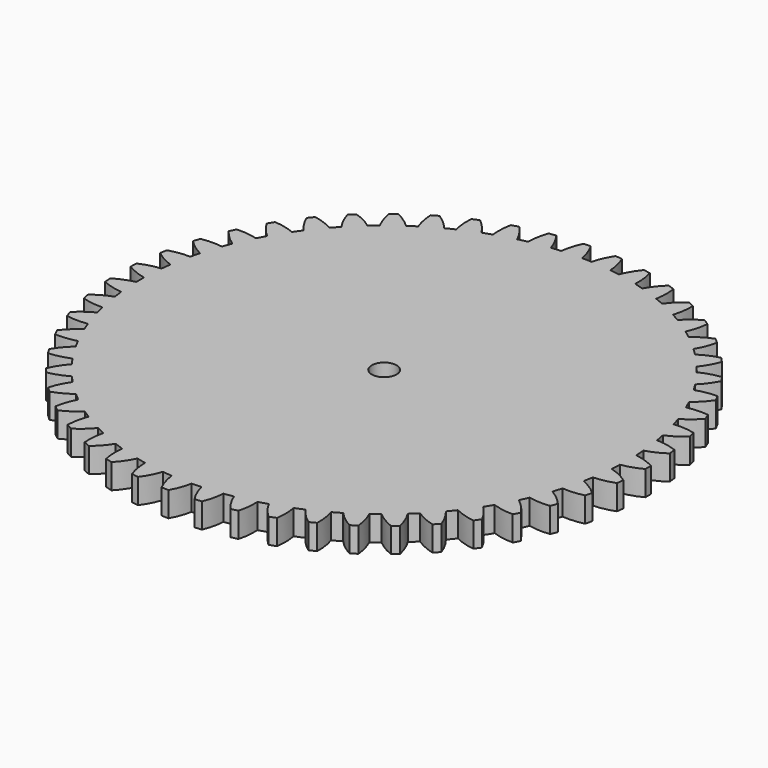
from build123d import *

# Parameters (mm, degrees)
F0_R     = 1
F1_DEPTH = 2


with BuildPart() as f1:
    # F0 (on Top) → F1 (new body)
    with BuildSketch(Plane.XY):
        with BuildLine():
            ThreePointArc((0.98732, 19.575117), (0.603583, 19.590704), (0.219615, 19.59877))
            ThreePointArc((0.219615, 19.59877), (-0.008279, 20.422581), (-0.370556, 21.196761))
            ThreePointArc((-0.370556, 21.196761), (-0.652855, 21.189945), (-0.935039, 21.17937))
            ThreePointArc((-0.935039, 21.17937), (-1.248969, 20.384355), (-1.425716, 19.548077))
            ThreePointArc((-1.425716, 19.548077), (-1.80846, 19.51639), (-2.190509, 19.477209))
            ThreePointArc((-2.190509, 19.477209), (-2.517912, 20.26677), (-2.972581, 20.990564))
            ThreePointArc((-2.972581, 20.990564), (-3.251903, 20.949108), (-3.530648, 20.903936))
            ThreePointArc((-3.530648, 20.903936), (-3.744501, 20.076369), (-3.81714, 19.224709))
            ThreePointArc((-3.81714, 19.224709), (-4.193088, 19.146227), (-4.567427, 19.060394))
            ThreePointArc((-4.567427, 19.060394), (-4.989377, 19.803737), (-5.529545, 20.466171))
            ThreePointArc((-5.529545, 20.466171), (-5.801655, 20.390704), (-6.072737, 20.311619))
            ThreePointArc((-6.072737, 20.311619), (-6.183271, 19.464045), (-6.150699, 18.609914))
            ThreePointArc((-6.150699, 18.609914), (-6.514154, 18.485827), (-6.875108, 18.354642))
            ThreePointArc((-6.875108, 18.354642), (-7.385207, 19.040499), (-8.002686, 19.631531))
            ThreePointArc((-8.002686, 19.631531), (-8.263461, 19.523197), (-8.522769, 19.411399))
            ThreePointArc((-8.522769, 19.411399), (-8.528308, 18.556666), (-8.391021, 17.713011))
            ThreePointArc((-8.391021, 17.713011), (-8.736472, 17.545201), (-9.078568, 17.370653))
            ThreePointArc((-9.078568, 17.370653), (-9.669085, 17.988626), (-10.354515, 18.499298))
            ThreePointArc((-10.354515, 18.499298), (-10.6, 18.359739), (-10.843604, 18.216922))
            ThreePointArc((-10.843604, 18.216922), (-10.744064, 17.367986), (-10.504143, 16.547598))
            ThreePointArc((-10.504143, 16.547598), (-10.826353, 16.338607), (-11.144407, 16.123343))
            ThreePointArc((-11.144407, 16.123343), (-11.80639, 16.664064), (-12.54938, 17.086634))
            ThreePointArc((-12.54938, 17.086634), (-12.775854, 16.917965), (-13.000062, 16.746295))
            ThreePointArc((-13.000062, 16.746295), (-12.796952, 15.916026), (-12.458033, 15.131339))
            ThreePointArc((-12.458033, 15.131339), (-12.752119, 14.884336), (-13.041309, 14.631619))
            ThreePointArc((-13.041309, 14.631619), (-13.764722, 15.086892), (-14.55401, 15.414954))
            ThreePointArc((-14.55401, 15.414954), (-14.75804, 15.219733), (-14.959451, 15.021811))
            ThreePointArc((-14.959451, 15.021811), (-14.655851, 14.222795), (-14.223072, 13.485705))
            ThreePointArc((-14.223072, 13.485705), (-14.484575, 13.204435), (-14.740517, 12.918095))
            ThreePointArc((-14.740517, 12.918095), (-15.514395, 13.281018), (-16.338015, 13.509599))
            ThreePointArc((-16.338015, 13.509599), (-16.516508, 13.290785), (-16.692071, 13.069612))
            ThreePointArc((-16.692071, 13.069612), (-16.292582, 12.313961), (-15.772503, 11.635641))
            ThreePointArc((-15.772503, 11.635641), (-15.997459, 11.324367), (-16.216274, 11.008745))
            ThreePointArc((-16.216274, 11.008745), (-17.028885, 11.273817), (-17.874353, 11.399452))
            ThreePointArc((-17.874353, 11.399452), (-18.024603, 11.160362), (-18.171656, 10.919291))
            ThreePointArc((-18.171656, 10.919291), (-17.682334, 10.21846), (-17.08284, 9.609193))
            ThreePointArc((-17.08284, 9.609193), (-17.267839, 9.272634), (-17.446208, 8.932514))
            ThreePointArc((-17.446208, 8.932514), (-18.285235, 9.095716), (-19.139733, 9.116502))
            ThreePointArc((-19.139733, 9.116502), (-19.259464, 8.860759), (-19.375777, 8.603445))
            ThreePointArc((-19.375777, 8.603445), (-18.80404, 7.968058), (-18.134218, 7.437079))
            ThreePointArc((-18.134218, 7.437079), (-18.276456, 7.080337), (-18.411676, 6.720876))
            ThreePointArc((-18.411676, 6.720876), (-19.264399, 6.779734), (-20.114975, 6.695354))
            ThreePointArc((-20.114975, 6.695354), (-20.20237, 6.426837), (-20.286181, 6.157179))
            ThreePointArc((-20.286181, 6.157179), (-19.640696, 5.596867), (-18.9107, 5.152227))
            ThreePointArc((-18.9107, 5.152227), (-19.00802, 4.780709), (-19.098042, 4.407355))
            ThreePointArc((-19.098042, 4.407355), (-19.951535, 4.360978), (-20.785295, 4.172712))
            ThreePointArc((-20.785295, 4.172712), (-20.83903, 3.89549), (-20.889067, 3.617577))
            ThreePointArc((-20.889067, 3.617577), (-20.179619, 3.140834), (-19.400514, 2.789272))
            ThreePointArc((-19.400514, 2.789272), (-19.451442, 2.40861), (-19.494901, 2.027024))
            ThreePointArc((-19.494901, 2.027024), (-20.336225, 1.876114), (-21.14053, 1.586815))
            ThreePointArc((-21.14053, 1.586815), (-21.159791, 1.305091), (-21.175297, 1.023135))
            ThreePointArc((-21.175297, 1.023135), (-20.41264, 0.63719), (-19.596237, 0.384035))
            ThreePointArc((-19.596237, 0.384035), (-19.6, 0), (-19.596237, -0.384035))
            ThreePointArc((-19.596237, -0.384035), (-20.41264, -0.63719), (-21.175297, -1.023135))
            ThreePointArc((-21.175297, -1.023135), (-21.159791, -1.305091), (-21.14053, -1.586815))
            ThreePointArc((-21.14053, -1.586815), (-20.336225, -1.876114), (-19.494901, -2.027024))
            ThreePointArc((-19.494901, -2.027024), (-19.451442, -2.40861), (-19.400514, -2.789272))
            ThreePointArc((-19.400514, -2.789272), (-20.179619, -3.140834), (-20.889067, -3.617577))
            ThreePointArc((-20.889067, -3.617577), (-20.83903, -3.89549), (-20.785295, -4.172712))
            ThreePointArc((-20.785295, -4.172712), (-19.951535, -4.360978), (-19.098042, -4.407355))
            ThreePointArc((-19.098042, -4.407355), (-19.00802, -4.780709), (-18.9107, -5.152227))
            ThreePointArc((-18.9107, -5.152227), (-19.640696, -5.596867), (-20.286181, -6.157179))
            ThreePointArc((-20.286181, -6.157179), (-20.20237, -6.426837), (-20.114975, -6.695354))
            ThreePointArc((-20.114975, -6.695354), (-19.264399, -6.779734), (-18.411676, -6.720876))
            ThreePointArc((-18.411676, -6.720876), (-18.276456, -7.080337), (-18.134218, -7.437079))
            ThreePointArc((-18.134218, -7.437079), (-18.80404, -7.968058), (-19.375777, -8.603445))
            ThreePointArc((-19.375777, -8.603445), (-19.259464, -8.860759), (-19.139733, -9.116502))
            ThreePointArc((-19.139733, -9.116502), (-18.285235, -9.095716), (-17.446208, -8.932514))
            ThreePointArc((-17.446208, -8.932514), (-17.267839, -9.272634), (-17.08284, -9.609193))
            ThreePointArc((-17.08284, -9.609193), (-17.682334, -10.21846), (-18.171656, -10.919291))
            ThreePointArc((-18.171656, -10.919291), (-18.024603, -11.160362), (-17.874353, -11.399452))
            ThreePointArc((-17.874353, -11.399452), (-17.028885, -11.273817), (-16.216274, -11.008745))
            ThreePointArc((-16.216274, -11.008745), (-15.997459, -11.324367), (-15.772503, -11.635641))
            ThreePointArc((-15.772503, -11.635641), (-16.292582, -12.313961), (-16.692071, -13.069612))
            ThreePointArc((-16.692071, -13.069612), (-16.516508, -13.290785), (-16.338015, -13.509599))
            ThreePointArc((-16.338015, -13.509599), (-15.514395, -13.281018), (-14.740517, -12.918095))
            ThreePointArc((-14.740517, -12.918095), (-14.484575, -13.204435), (-14.223072, -13.485705))
            ThreePointArc((-14.223072, -13.485705), (-14.655851, -14.222795), (-14.959451, -15.021811))
            ThreePointArc((-14.959451, -15.021811), (-14.75804, -15.219733), (-14.55401, -15.414954))
            ThreePointArc((-14.55401, -15.414954), (-13.764722, -15.086892), (-13.041309, -14.631619))
            ThreePointArc((-13.041309, -14.631619), (-12.752119, -14.884336), (-12.458033, -15.131339))
            ThreePointArc((-12.458033, -15.131339), (-12.796952, -15.916026), (-13.000062, -16.746295))
            ThreePointArc((-13.000062, -16.746295), (-12.775854, -16.917965), (-12.54938, -17.086634))
            ThreePointArc((-12.54938, -17.086634), (-11.80639, -16.664064), (-11.144407, -16.123343))
            ThreePointArc((-11.144407, -16.123343), (-10.826353, -16.338607), (-10.504143, -16.547598))
            ThreePointArc((-10.504143, -16.547598), (-10.744064, -17.367986), (-10.843604, -18.216922))
            ThreePointArc((-10.843604, -18.216922), (-10.6, -18.359739), (-10.354515, -18.499298))
            ThreePointArc((-10.354515, -18.499298), (-9.669085, -17.988626), (-9.078568, -17.370653))
            ThreePointArc((-9.078568, -17.370653), (-8.736472, -17.545201), (-8.391021, -17.713011))
            ThreePointArc((-8.391021, -17.713011), (-8.528308, -18.556666), (-8.522769, -19.411399))
            ThreePointArc((-8.522769, -19.411399), (-8.263461, -19.523197), (-8.002686, -19.631531))
            ThreePointArc((-8.002686, -19.631531), (-7.385207, -19.040499), (-6.875108, -18.354642))
            ThreePointArc((-6.875108, -18.354642), (-6.514154, -18.485827), (-6.150699, -18.609914))
            ThreePointArc((-6.150699, -18.609914), (-6.183271, -19.464045), (-6.072737, -20.311619))
            ThreePointArc((-6.072737, -20.311619), (-5.801655, -20.390704), (-5.529545, -20.466171))
            ThreePointArc((-5.529545, -20.466171), (-4.989377, -19.803737), (-4.567427, -19.060394))
            ThreePointArc((-4.567427, -19.060394), (-4.193088, -19.146227), (-3.81714, -19.224709))
            ThreePointArc((-3.81714, -19.224709), (-3.744501, -20.076369), (-3.530648, -20.903936))
            ThreePointArc((-3.530648, -20.903936), (-3.251903, -20.949108), (-2.972581, -20.990564))
            ThreePointArc((-2.972581, -20.990564), (-2.517912, -20.26677), (-2.190509, -19.477209))
            ThreePointArc((-2.190509, -19.477209), (-1.80846, -19.51639), (-1.425716, -19.548077))
            ThreePointArc((-1.425716, -19.548077), (-1.248969, -20.384355), (-0.935039, -21.17937))
            ThreePointArc((-0.935039, -21.17937), (-0.652855, -21.189945), (-0.370556, -21.196761))
            ThreePointArc((-0.370556, -21.196761), (-0.008279, -20.422581), (0.219615, -19.59877))
            ThreePointArc((0.219615, -19.59877), (0.603583, -19.590704), (0.98732, -19.575117))
            ThreePointArc((0.98732, -19.575117), (1.265496, -20.383336), (1.674745, -21.133746))
            ThreePointArc((1.674745, -21.133746), (1.956089, -21.109565), (2.237087, -21.081638))
            ThreePointArc((2.237087, -21.081638), (2.50148, -20.268805), (2.626409, -19.423233))
            ThreePointArc((2.626409, -19.423233), (3.006476, -19.368043), (3.385389, -19.305417))
            ThreePointArc((3.385389, -19.305417), (3.760777, -20.073326), (4.259141, -20.767757))
            ThreePointArc((4.259141, -20.767757), (4.535381, -20.709184), (4.810817, -20.646938))
            ThreePointArc((4.810817, -20.646938), (4.973319, -19.807775), (4.99339, -18.95326))
            ThreePointArc((4.99339, -18.95326), (5.363795, -18.851783), (5.732139, -18.743067))
            ThreePointArc((5.732139, -18.743067), (6.199049, -19.459025), (6.778973, -20.086949))
            ThreePointArc((6.778973, -20.086949), (7.045922, -19.994874), (7.311621, -19.899251))
            ThreePointArc((7.311621, -19.899251), (7.369767, -19.04648), (7.284677, -18.195974))
            ThreePointArc((7.284677, -18.195974), (7.639803, -18.049748), (7.991996, -17.896592))
            ThreePointArc((7.991996, -17.896592), (8.54335, -18.549745), (9.196043, -19.101644))
            ThreePointArc((9.196043, -19.101644), (9.449653, -18.977462), (9.701587, -18.849913))
            ThreePointArc((9.701587, -18.849913), (9.654497, -17.996459), (9.465535, -17.162857))
            ThreePointArc((9.465535, -17.162857), (9.8, -16.974098), (10.130703, -16.778822))
            ThreePointArc((10.130703, -16.778822), (10.758142, -17.35927), (11.47371, -17.826777))
            ThreePointArc((11.47371, -17.826777), (11.710137, -17.672371), (11.944488, -17.514828))
            ThreePointArc((11.944488, -17.514828), (11.792875, -16.673631), (11.502905, -15.869568))
            ThreePointArc((11.502905, -15.869568), (11.811639, -15.641138), (12.115838, -15.406702))
            ThreePointArc((12.115838, -15.406702), (12.809852, -15.905646), (13.577447, -16.281675))
            ThreePointArc((13.577447, -16.281675), (13.793108, -16.099384), (14.006322, -15.914237))
            ThreePointArc((14.006322, -15.914237), (13.752485, -15.098047), (13.365903, -14.335712))
            ThreePointArc((13.365903, -14.335712), (13.644225, -14.071074), (13.917309, -13.801033))
            ThreePointArc((13.917309, -13.801033), (14.667377, -14.210908), (15.475364, -14.489759))
            ThreePointArc((15.475364, -14.489759), (15.666989, -14.282348), (15.855834, -14.072403))
            ThreePointArc((15.855834, -14.072403), (15.503622, -13.293592), (15.026287, -12.584542))
            ThreePointArc((15.026287, -12.584542), (15.269979, -12.287707), (15.507808, -11.986154))
            ThreePointArc((15.507808, -11.986154), (16.30256, -12.300748), (17.13869, -12.478193))
            ThreePointArc((17.13869, -12.478193), (17.303375, -12.248805), (17.464989, -12.017245))
            ThreePointArc((17.464989, -12.017245), (17.019739, -11.28762), (16.458888, -10.642603))
            ThreePointArc((16.458888, -10.642603), (16.664256, -10.31807), (16.863225, -9.989577))
            ThreePointArc((16.863225, -9.989577), (17.690613, -10.20412), (18.542212, -10.27747))
            ThreePointArc((18.542212, -10.27747), (18.677459, -10.029583), (18.809392, -9.779917))
            ThreePointArc((18.809392, -9.779917), (18.277854, -9.110539), (17.64199, -8.539332))
            ThreePointArc((17.64199, -8.539332), (17.805919, -8.192023), (17.963012, -7.841568))
            ThreePointArc((17.963012, -7.841568), (18.810494, -7.952809), (19.664652, -7.920951))
            ThreePointArc((19.664652, -7.920951), (19.768411, -7.658323), (19.868663, -7.394337))
            ThreePointArc((19.868663, -7.394337), (19.258896, -6.795351), (18.557656, -6.306615))
            ThreePointArc((18.557656, -6.306615), (18.677663, -5.941792), (18.790499, -5.574689))
            ThreePointArc((18.790499, -5.574689), (19.645227, -5.580942), (20.488996, -5.444359))
            ThreePointArc((20.488996, -5.444359), (20.559695, -5.170971), (20.626746, -4.896665))
            ThreePointArc((20.626746, -4.896665), (19.947992, -4.377153), (19.192008, -3.978295))
            ThreePointArc((19.192008, -3.978295), (19.266273, -3.601491), (19.33314, -3.223303))
            ThreePointArc((19.33314, -3.223303), (20.182159, -3.124472), (21.002748, -2.885236))
            ThreePointArc((21.002748, -2.885236), (21.039315, -2.605232), (21.072149, -2.324765))
            ThreePointArc((21.072149, -2.324765), (20.334698, -1.892602), (19.535428, -1.589669))
            ThreePointArc((19.535428, -1.589669), (19.562825, -1.206594), (19.582711, -0.823056))
            ThreePointArc((19.582711, -0.823056), (20.41315, -0.620639), (21.198119, -0.282376))
            ThreePointArc((21.198119, -0.282376), (21.2, 0), (21.198119, 0.282376))
            ThreePointArc((21.198119, 0.282376), (20.41315, 0.620639), (19.582711, 0.823056))
            ThreePointArc((19.582711, 0.823056), (19.562825, 1.206594), (19.535428, 1.589669))
            ThreePointArc((19.535428, 1.589669), (20.334698, 1.892602), (21.072149, 2.324765))
            ThreePointArc((21.072149, 2.324765), (21.039315, 2.605232), (21.002748, 2.885236))
            ThreePointArc((21.002748, 2.885236), (20.182159, 3.124472), (19.33314, 3.223303))
            ThreePointArc((19.33314, 3.223303), (19.266273, 3.601491), (19.192008, 3.978295))
            ThreePointArc((19.192008, 3.978295), (19.947992, 4.377153), (20.626746, 4.896665))
            ThreePointArc((20.626746, 4.896665), (20.559695, 5.170971), (20.488996, 5.444359))
            ThreePointArc((20.488996, 5.444359), (19.645227, 5.580942), (18.790499, 5.574689))
            ThreePointArc((18.790499, 5.574689), (18.677663, 5.941792), (18.557656, 6.306615))
            ThreePointArc((18.557656, 6.306615), (19.258896, 6.795351), (19.868663, 7.394337))
            ThreePointArc((19.868663, 7.394337), (19.768411, 7.658323), (19.664652, 7.920951))
            ThreePointArc((19.664652, 7.920951), (18.810494, 7.952809), (17.963012, 7.841568))
            ThreePointArc((17.963012, 7.841568), (17.805919, 8.192023), (17.64199, 8.539332))
            ThreePointArc((17.64199, 8.539332), (18.277854, 9.110539), (18.809392, 9.779917))
            ThreePointArc((18.809392, 9.779917), (18.677459, 10.029583), (18.542212, 10.27747))
            ThreePointArc((18.542212, 10.27747), (17.690613, 10.20412), (16.863225, 9.989577))
            ThreePointArc((16.863225, 9.989577), (16.664256, 10.31807), (16.458888, 10.642603))
            ThreePointArc((16.458888, 10.642603), (17.019739, 11.28762), (17.464989, 12.017245))
            ThreePointArc((17.464989, 12.017245), (17.303375, 12.248805), (17.13869, 12.478193))
            ThreePointArc((17.13869, 12.478193), (16.30256, 12.300748), (15.507808, 11.986154))
            ThreePointArc((15.507808, 11.986154), (15.269979, 12.287707), (15.026287, 12.584542))
            ThreePointArc((15.026287, 12.584542), (15.503622, 13.293592), (15.855834, 14.072403))
            ThreePointArc((15.855834, 14.072403), (15.666989, 14.282348), (15.475364, 14.489759))
            ThreePointArc((15.475364, 14.489759), (14.667377, 14.210908), (13.917309, 13.801033))
            ThreePointArc((13.917309, 13.801033), (13.644225, 14.071074), (13.365903, 14.335712))
            ThreePointArc((13.365903, 14.335712), (13.752485, 15.098047), (14.006322, 15.914237))
            ThreePointArc((14.006322, 15.914237), (13.793108, 16.099384), (13.577447, 16.281675))
            ThreePointArc((13.577447, 16.281675), (12.809852, 15.905646), (12.115838, 15.406702))
            ThreePointArc((12.115838, 15.406702), (11.811639, 15.641138), (11.502905, 15.869568))
            ThreePointArc((11.502905, 15.869568), (11.792875, 16.673631), (11.944488, 17.514828))
            ThreePointArc((11.944488, 17.514828), (11.710137, 17.672371), (11.47371, 17.826777))
            ThreePointArc((11.47371, 17.826777), (10.758142, 17.35927), (10.130703, 16.778822))
            ThreePointArc((10.130703, 16.778822), (9.8, 16.974098), (9.465535, 17.162857))
            ThreePointArc((9.465535, 17.162857), (9.654497, 17.996459), (9.701587, 18.849913))
            ThreePointArc((9.701587, 18.849913), (9.449653, 18.977462), (9.196043, 19.101644))
            ThreePointArc((9.196043, 19.101644), (8.54335, 18.549745), (7.991996, 17.896592))
            ThreePointArc((7.991996, 17.896592), (7.639803, 18.049748), (7.284677, 18.195974))
            ThreePointArc((7.284677, 18.195974), (7.369767, 19.04648), (7.311621, 19.899251))
            ThreePointArc((7.311621, 19.899251), (7.045922, 19.994874), (6.778973, 20.086949))
            ThreePointArc((6.778973, 20.086949), (6.199049, 19.459025), (5.732139, 18.743067))
            ThreePointArc((5.732139, 18.743067), (5.363795, 18.851783), (4.99339, 18.95326))
            ThreePointArc((4.99339, 18.95326), (4.973319, 19.807775), (4.810817, 20.646938))
            ThreePointArc((4.810817, 20.646938), (4.535381, 20.709184), (4.259141, 20.767757))
            ThreePointArc((4.259141, 20.767757), (3.760777, 20.073326), (3.385389, 19.305417))
            ThreePointArc((3.385389, 19.305417), (3.006476, 19.368043), (2.626409, 19.423233))
            ThreePointArc((2.626409, 19.423233), (2.50148, 20.268805), (2.237087, 21.081638))
            ThreePointArc((2.237087, 21.081638), (1.956089, 21.109565), (1.674745, 21.133746))
            ThreePointArc((1.674745, 21.133746), (1.265496, 20.383336), (0.98732, 19.575117))
        make_face()
        Circle(F0_R, mode=Mode.SUBTRACT)
        with BuildLine():
            ThreePointArc((0.98732, 19.575117), (0.603583, 19.590704), (0.219615, 19.59877))
            ThreePointArc((0.219615, 19.59877), (-0.008279, 20.422581), (-0.370556, 21.196761))
            ThreePointArc((-0.370556, 21.196761), (-0.652855, 21.189945), (-0.935039, 21.17937))
            ThreePointArc((-0.935039, 21.17937), (-1.248969, 20.384355), (-1.425716, 19.548077))
            ThreePointArc((-1.425716, 19.548077), (-1.80846, 19.51639), (-2.190509, 19.477209))
            ThreePointArc((-2.190509, 19.477209), (-2.517912, 20.26677), (-2.972581, 20.990564))
            ThreePointArc((-2.972581, 20.990564), (-3.251903, 20.949108), (-3.530648, 20.903936))
            ThreePointArc((-3.530648, 20.903936), (-3.744501, 20.076369), (-3.81714, 19.224709))
            ThreePointArc((-3.81714, 19.224709), (-4.193088, 19.146227), (-4.567427, 19.060394))
            ThreePointArc((-4.567427, 19.060394), (-4.989377, 19.803737), (-5.529545, 20.466171))
            ThreePointArc((-5.529545, 20.466171), (-5.801655, 20.390704), (-6.072737, 20.311619))
            ThreePointArc((-6.072737, 20.311619), (-6.183271, 19.464045), (-6.150699, 18.609914))
            ThreePointArc((-6.150699, 18.609914), (-6.514154, 18.485827), (-6.875108, 18.354642))
            ThreePointArc((-6.875108, 18.354642), (-7.385207, 19.040499), (-8.002686, 19.631531))
            ThreePointArc((-8.002686, 19.631531), (-8.263461, 19.523197), (-8.522769, 19.411399))
            ThreePointArc((-8.522769, 19.411399), (-8.528308, 18.556666), (-8.391021, 17.713011))
            ThreePointArc((-8.391021, 17.713011), (-8.736472, 17.545201), (-9.078568, 17.370653))
            ThreePointArc((-9.078568, 17.370653), (-9.669085, 17.988626), (-10.354515, 18.499298))
            ThreePointArc((-10.354515, 18.499298), (-10.6, 18.359739), (-10.843604, 18.216922))
            ThreePointArc((-10.843604, 18.216922), (-10.744064, 17.367986), (-10.504143, 16.547598))
            ThreePointArc((-10.504143, 16.547598), (-10.826353, 16.338607), (-11.144407, 16.123343))
            ThreePointArc((-11.144407, 16.123343), (-11.80639, 16.664064), (-12.54938, 17.086634))
            ThreePointArc((-12.54938, 17.086634), (-12.775854, 16.917965), (-13.000062, 16.746295))
            ThreePointArc((-13.000062, 16.746295), (-12.796952, 15.916026), (-12.458033, 15.131339))
            ThreePointArc((-12.458033, 15.131339), (-12.752119, 14.884336), (-13.041309, 14.631619))
            ThreePointArc((-13.041309, 14.631619), (-13.764722, 15.086892), (-14.55401, 15.414954))
            ThreePointArc((-14.55401, 15.414954), (-14.75804, 15.219733), (-14.959451, 15.021811))
            ThreePointArc((-14.959451, 15.021811), (-14.655851, 14.222795), (-14.223072, 13.485705))
            ThreePointArc((-14.223072, 13.485705), (-14.484575, 13.204435), (-14.740517, 12.918095))
            ThreePointArc((-14.740517, 12.918095), (-15.514395, 13.281018), (-16.338015, 13.509599))
            ThreePointArc((-16.338015, 13.509599), (-16.516508, 13.290785), (-16.692071, 13.069612))
            ThreePointArc((-16.692071, 13.069612), (-16.292582, 12.313961), (-15.772503, 11.635641))
            ThreePointArc((-15.772503, 11.635641), (-15.997459, 11.324367), (-16.216274, 11.008745))
            ThreePointArc((-16.216274, 11.008745), (-17.028885, 11.273817), (-17.874353, 11.399452))
            ThreePointArc((-17.874353, 11.399452), (-18.024603, 11.160362), (-18.171656, 10.919291))
            ThreePointArc((-18.171656, 10.919291), (-17.682334, 10.21846), (-17.08284, 9.609193))
            ThreePointArc((-17.08284, 9.609193), (-17.267839, 9.272634), (-17.446208, 8.932514))
            ThreePointArc((-17.446208, 8.932514), (-18.285235, 9.095716), (-19.139733, 9.116502))
            ThreePointArc((-19.139733, 9.116502), (-19.259464, 8.860759), (-19.375777, 8.603445))
            ThreePointArc((-19.375777, 8.603445), (-18.80404, 7.968058), (-18.134218, 7.437079))
            ThreePointArc((-18.134218, 7.437079), (-18.276456, 7.080337), (-18.411676, 6.720876))
            ThreePointArc((-18.411676, 6.720876), (-19.264399, 6.779734), (-20.114975, 6.695354))
            ThreePointArc((-20.114975, 6.695354), (-20.20237, 6.426837), (-20.286181, 6.157179))
            ThreePointArc((-20.286181, 6.157179), (-19.640696, 5.596867), (-18.9107, 5.152227))
            ThreePointArc((-18.9107, 5.152227), (-19.00802, 4.780709), (-19.098042, 4.407355))
            ThreePointArc((-19.098042, 4.407355), (-19.951535, 4.360978), (-20.785295, 4.172712))
            ThreePointArc((-20.785295, 4.172712), (-20.83903, 3.89549), (-20.889067, 3.617577))
            ThreePointArc((-20.889067, 3.617577), (-20.179619, 3.140834), (-19.400514, 2.789272))
            ThreePointArc((-19.400514, 2.789272), (-19.451442, 2.40861), (-19.494901, 2.027024))
            ThreePointArc((-19.494901, 2.027024), (-20.336225, 1.876114), (-21.14053, 1.586815))
            ThreePointArc((-21.14053, 1.586815), (-21.159791, 1.305091), (-21.175297, 1.023135))
            ThreePointArc((-21.175297, 1.023135), (-20.41264, 0.63719), (-19.596237, 0.384035))
            ThreePointArc((-19.596237, 0.384035), (-19.6, 0), (-19.596237, -0.384035))
            ThreePointArc((-19.596237, -0.384035), (-20.41264, -0.63719), (-21.175297, -1.023135))
            ThreePointArc((-21.175297, -1.023135), (-21.159791, -1.305091), (-21.14053, -1.586815))
            ThreePointArc((-21.14053, -1.586815), (-20.336225, -1.876114), (-19.494901, -2.027024))
            ThreePointArc((-19.494901, -2.027024), (-19.451442, -2.40861), (-19.400514, -2.789272))
            ThreePointArc((-19.400514, -2.789272), (-20.179619, -3.140834), (-20.889067, -3.617577))
            ThreePointArc((-20.889067, -3.617577), (-20.83903, -3.89549), (-20.785295, -4.172712))
            ThreePointArc((-20.785295, -4.172712), (-19.951535, -4.360978), (-19.098042, -4.407355))
            ThreePointArc((-19.098042, -4.407355), (-19.00802, -4.780709), (-18.9107, -5.152227))
            ThreePointArc((-18.9107, -5.152227), (-19.640696, -5.596867), (-20.286181, -6.157179))
            ThreePointArc((-20.286181, -6.157179), (-20.20237, -6.426837), (-20.114975, -6.695354))
            ThreePointArc((-20.114975, -6.695354), (-19.264399, -6.779734), (-18.411676, -6.720876))
            ThreePointArc((-18.411676, -6.720876), (-18.276456, -7.080337), (-18.134218, -7.437079))
            ThreePointArc((-18.134218, -7.437079), (-18.80404, -7.968058), (-19.375777, -8.603445))
            ThreePointArc((-19.375777, -8.603445), (-19.259464, -8.860759), (-19.139733, -9.116502))
            ThreePointArc((-19.139733, -9.116502), (-18.285235, -9.095716), (-17.446208, -8.932514))
            ThreePointArc((-17.446208, -8.932514), (-17.267839, -9.272634), (-17.08284, -9.609193))
            ThreePointArc((-17.08284, -9.609193), (-17.682334, -10.21846), (-18.171656, -10.919291))
            ThreePointArc((-18.171656, -10.919291), (-18.024603, -11.160362), (-17.874353, -11.399452))
            ThreePointArc((-17.874353, -11.399452), (-17.028885, -11.273817), (-16.216274, -11.008745))
            ThreePointArc((-16.216274, -11.008745), (-15.997459, -11.324367), (-15.772503, -11.635641))
            ThreePointArc((-15.772503, -11.635641), (-16.292582, -12.313961), (-16.692071, -13.069612))
            ThreePointArc((-16.692071, -13.069612), (-16.516508, -13.290785), (-16.338015, -13.509599))
            ThreePointArc((-16.338015, -13.509599), (-15.514395, -13.281018), (-14.740517, -12.918095))
            ThreePointArc((-14.740517, -12.918095), (-14.484575, -13.204435), (-14.223072, -13.485705))
            ThreePointArc((-14.223072, -13.485705), (-14.655851, -14.222795), (-14.959451, -15.021811))
            ThreePointArc((-14.959451, -15.021811), (-14.75804, -15.219733), (-14.55401, -15.414954))
            ThreePointArc((-14.55401, -15.414954), (-13.764722, -15.086892), (-13.041309, -14.631619))
            ThreePointArc((-13.041309, -14.631619), (-12.752119, -14.884336), (-12.458033, -15.131339))
            ThreePointArc((-12.458033, -15.131339), (-12.796952, -15.916026), (-13.000062, -16.746295))
            ThreePointArc((-13.000062, -16.746295), (-12.775854, -16.917965), (-12.54938, -17.086634))
            ThreePointArc((-12.54938, -17.086634), (-11.80639, -16.664064), (-11.144407, -16.123343))
            ThreePointArc((-11.144407, -16.123343), (-10.826353, -16.338607), (-10.504143, -16.547598))
            ThreePointArc((-10.504143, -16.547598), (-10.744064, -17.367986), (-10.843604, -18.216922))
            ThreePointArc((-10.843604, -18.216922), (-10.6, -18.359739), (-10.354515, -18.499298))
            ThreePointArc((-10.354515, -18.499298), (-9.669085, -17.988626), (-9.078568, -17.370653))
            ThreePointArc((-9.078568, -17.370653), (-8.736472, -17.545201), (-8.391021, -17.713011))
            ThreePointArc((-8.391021, -17.713011), (-8.528308, -18.556666), (-8.522769, -19.411399))
            ThreePointArc((-8.522769, -19.411399), (-8.263461, -19.523197), (-8.002686, -19.631531))
            ThreePointArc((-8.002686, -19.631531), (-7.385207, -19.040499), (-6.875108, -18.354642))
            ThreePointArc((-6.875108, -18.354642), (-6.514154, -18.485827), (-6.150699, -18.609914))
            ThreePointArc((-6.150699, -18.609914), (-6.183271, -19.464045), (-6.072737, -20.311619))
            ThreePointArc((-6.072737, -20.311619), (-5.801655, -20.390704), (-5.529545, -20.466171))
            ThreePointArc((-5.529545, -20.466171), (-4.989377, -19.803737), (-4.567427, -19.060394))
            ThreePointArc((-4.567427, -19.060394), (-4.193088, -19.146227), (-3.81714, -19.224709))
            ThreePointArc((-3.81714, -19.224709), (-3.744501, -20.076369), (-3.530648, -20.903936))
            ThreePointArc((-3.530648, -20.903936), (-3.251903, -20.949108), (-2.972581, -20.990564))
            ThreePointArc((-2.972581, -20.990564), (-2.517912, -20.26677), (-2.190509, -19.477209))
            ThreePointArc((-2.190509, -19.477209), (-1.80846, -19.51639), (-1.425716, -19.548077))
            ThreePointArc((-1.425716, -19.548077), (-1.248969, -20.384355), (-0.935039, -21.17937))
            ThreePointArc((-0.935039, -21.17937), (-0.652855, -21.189945), (-0.370556, -21.196761))
            ThreePointArc((-0.370556, -21.196761), (-0.008279, -20.422581), (0.219615, -19.59877))
            ThreePointArc((0.219615, -19.59877), (0.603583, -19.590704), (0.98732, -19.575117))
            ThreePointArc((0.98732, -19.575117), (1.265496, -20.383336), (1.674745, -21.133746))
            ThreePointArc((1.674745, -21.133746), (1.956089, -21.109565), (2.237087, -21.081638))
            ThreePointArc((2.237087, -21.081638), (2.50148, -20.268805), (2.626409, -19.423233))
            ThreePointArc((2.626409, -19.423233), (3.006476, -19.368043), (3.385389, -19.305417))
            ThreePointArc((3.385389, -19.305417), (3.760777, -20.073326), (4.259141, -20.767757))
            ThreePointArc((4.259141, -20.767757), (4.535381, -20.709184), (4.810817, -20.646938))
            ThreePointArc((4.810817, -20.646938), (4.973319, -19.807775), (4.99339, -18.95326))
            ThreePointArc((4.99339, -18.95326), (5.363795, -18.851783), (5.732139, -18.743067))
            ThreePointArc((5.732139, -18.743067), (6.199049, -19.459025), (6.778973, -20.086949))
            ThreePointArc((6.778973, -20.086949), (7.045922, -19.994874), (7.311621, -19.899251))
            ThreePointArc((7.311621, -19.899251), (7.369767, -19.04648), (7.284677, -18.195974))
            ThreePointArc((7.284677, -18.195974), (7.639803, -18.049748), (7.991996, -17.896592))
            ThreePointArc((7.991996, -17.896592), (8.54335, -18.549745), (9.196043, -19.101644))
            ThreePointArc((9.196043, -19.101644), (9.449653, -18.977462), (9.701587, -18.849913))
            ThreePointArc((9.701587, -18.849913), (9.654497, -17.996459), (9.465535, -17.162857))
            ThreePointArc((9.465535, -17.162857), (9.8, -16.974098), (10.130703, -16.778822))
            ThreePointArc((10.130703, -16.778822), (10.758142, -17.35927), (11.47371, -17.826777))
            ThreePointArc((11.47371, -17.826777), (11.710137, -17.672371), (11.944488, -17.514828))
            ThreePointArc((11.944488, -17.514828), (11.792875, -16.673631), (11.502905, -15.869568))
            ThreePointArc((11.502905, -15.869568), (11.811639, -15.641138), (12.115838, -15.406702))
            ThreePointArc((12.115838, -15.406702), (12.809852, -15.905646), (13.577447, -16.281675))
            ThreePointArc((13.577447, -16.281675), (13.793108, -16.099384), (14.006322, -15.914237))
            ThreePointArc((14.006322, -15.914237), (13.752485, -15.098047), (13.365903, -14.335712))
            ThreePointArc((13.365903, -14.335712), (13.644225, -14.071074), (13.917309, -13.801033))
            ThreePointArc((13.917309, -13.801033), (14.667377, -14.210908), (15.475364, -14.489759))
            ThreePointArc((15.475364, -14.489759), (15.666989, -14.282348), (15.855834, -14.072403))
            ThreePointArc((15.855834, -14.072403), (15.503622, -13.293592), (15.026287, -12.584542))
            ThreePointArc((15.026287, -12.584542), (15.269979, -12.287707), (15.507808, -11.986154))
            ThreePointArc((15.507808, -11.986154), (16.30256, -12.300748), (17.13869, -12.478193))
            ThreePointArc((17.13869, -12.478193), (17.303375, -12.248805), (17.464989, -12.017245))
            ThreePointArc((17.464989, -12.017245), (17.019739, -11.28762), (16.458888, -10.642603))
            ThreePointArc((16.458888, -10.642603), (16.664256, -10.31807), (16.863225, -9.989577))
            ThreePointArc((16.863225, -9.989577), (17.690613, -10.20412), (18.542212, -10.27747))
            ThreePointArc((18.542212, -10.27747), (18.677459, -10.029583), (18.809392, -9.779917))
            ThreePointArc((18.809392, -9.779917), (18.277854, -9.110539), (17.64199, -8.539332))
            ThreePointArc((17.64199, -8.539332), (17.805919, -8.192023), (17.963012, -7.841568))
            ThreePointArc((17.963012, -7.841568), (18.810494, -7.952809), (19.664652, -7.920951))
            ThreePointArc((19.664652, -7.920951), (19.768411, -7.658323), (19.868663, -7.394337))
            ThreePointArc((19.868663, -7.394337), (19.258896, -6.795351), (18.557656, -6.306615))
            ThreePointArc((18.557656, -6.306615), (18.677663, -5.941792), (18.790499, -5.574689))
            ThreePointArc((18.790499, -5.574689), (19.645227, -5.580942), (20.488996, -5.444359))
            ThreePointArc((20.488996, -5.444359), (20.559695, -5.170971), (20.626746, -4.896665))
            ThreePointArc((20.626746, -4.896665), (19.947992, -4.377153), (19.192008, -3.978295))
            ThreePointArc((19.192008, -3.978295), (19.266273, -3.601491), (19.33314, -3.223303))
            ThreePointArc((19.33314, -3.223303), (20.182159, -3.124472), (21.002748, -2.885236))
            ThreePointArc((21.002748, -2.885236), (21.039315, -2.605232), (21.072149, -2.324765))
            ThreePointArc((21.072149, -2.324765), (20.334698, -1.892602), (19.535428, -1.589669))
            ThreePointArc((19.535428, -1.589669), (19.562825, -1.206594), (19.582711, -0.823056))
            ThreePointArc((19.582711, -0.823056), (20.41315, -0.620639), (21.198119, -0.282376))
            ThreePointArc((21.198119, -0.282376), (21.2, 0), (21.198119, 0.282376))
            ThreePointArc((21.198119, 0.282376), (20.41315, 0.620639), (19.582711, 0.823056))
            ThreePointArc((19.582711, 0.823056), (19.562825, 1.206594), (19.535428, 1.589669))
            ThreePointArc((19.535428, 1.589669), (20.334698, 1.892602), (21.072149, 2.324765))
            ThreePointArc((21.072149, 2.324765), (21.039315, 2.605232), (21.002748, 2.885236))
            ThreePointArc((21.002748, 2.885236), (20.182159, 3.124472), (19.33314, 3.223303))
            ThreePointArc((19.33314, 3.223303), (19.266273, 3.601491), (19.192008, 3.978295))
            ThreePointArc((19.192008, 3.978295), (19.947992, 4.377153), (20.626746, 4.896665))
            ThreePointArc((20.626746, 4.896665), (20.559695, 5.170971), (20.488996, 5.444359))
            ThreePointArc((20.488996, 5.444359), (19.645227, 5.580942), (18.790499, 5.574689))
            ThreePointArc((18.790499, 5.574689), (18.677663, 5.941792), (18.557656, 6.306615))
            ThreePointArc((18.557656, 6.306615), (19.258896, 6.795351), (19.868663, 7.394337))
            ThreePointArc((19.868663, 7.394337), (19.768411, 7.658323), (19.664652, 7.920951))
            ThreePointArc((19.664652, 7.920951), (18.810494, 7.952809), (17.963012, 7.841568))
            ThreePointArc((17.963012, 7.841568), (17.805919, 8.192023), (17.64199, 8.539332))
            ThreePointArc((17.64199, 8.539332), (18.277854, 9.110539), (18.809392, 9.779917))
            ThreePointArc((18.809392, 9.779917), (18.677459, 10.029583), (18.542212, 10.27747))
            ThreePointArc((18.542212, 10.27747), (17.690613, 10.20412), (16.863225, 9.989577))
            ThreePointArc((16.863225, 9.989577), (16.664256, 10.31807), (16.458888, 10.642603))
            ThreePointArc((16.458888, 10.642603), (17.019739, 11.28762), (17.464989, 12.017245))
            ThreePointArc((17.464989, 12.017245), (17.303375, 12.248805), (17.13869, 12.478193))
            ThreePointArc((17.13869, 12.478193), (16.30256, 12.300748), (15.507808, 11.986154))
            ThreePointArc((15.507808, 11.986154), (15.269979, 12.287707), (15.026287, 12.584542))
            ThreePointArc((15.026287, 12.584542), (15.503622, 13.293592), (15.855834, 14.072403))
            ThreePointArc((15.855834, 14.072403), (15.666989, 14.282348), (15.475364, 14.489759))
            ThreePointArc((15.475364, 14.489759), (14.667377, 14.210908), (13.917309, 13.801033))
            ThreePointArc((13.917309, 13.801033), (13.644225, 14.071074), (13.365903, 14.335712))
            ThreePointArc((13.365903, 14.335712), (13.752485, 15.098047), (14.006322, 15.914237))
            ThreePointArc((14.006322, 15.914237), (13.793108, 16.099384), (13.577447, 16.281675))
            ThreePointArc((13.577447, 16.281675), (12.809852, 15.905646), (12.115838, 15.406702))
            ThreePointArc((12.115838, 15.406702), (11.811639, 15.641138), (11.502905, 15.869568))
            ThreePointArc((11.502905, 15.869568), (11.792875, 16.673631), (11.944488, 17.514828))
            ThreePointArc((11.944488, 17.514828), (11.710137, 17.672371), (11.47371, 17.826777))
            ThreePointArc((11.47371, 17.826777), (10.758142, 17.35927), (10.130703, 16.778822))
            ThreePointArc((10.130703, 16.778822), (9.8, 16.974098), (9.465535, 17.162857))
            ThreePointArc((9.465535, 17.162857), (9.654497, 17.996459), (9.701587, 18.849913))
            ThreePointArc((9.701587, 18.849913), (9.449653, 18.977462), (9.196043, 19.101644))
            ThreePointArc((9.196043, 19.101644), (8.54335, 18.549745), (7.991996, 17.896592))
            ThreePointArc((7.991996, 17.896592), (7.639803, 18.049748), (7.284677, 18.195974))
            ThreePointArc((7.284677, 18.195974), (7.369767, 19.04648), (7.311621, 19.899251))
            ThreePointArc((7.311621, 19.899251), (7.045922, 19.994874), (6.778973, 20.086949))
            ThreePointArc((6.778973, 20.086949), (6.199049, 19.459025), (5.732139, 18.743067))
            ThreePointArc((5.732139, 18.743067), (5.363795, 18.851783), (4.99339, 18.95326))
            ThreePointArc((4.99339, 18.95326), (4.973319, 19.807775), (4.810817, 20.646938))
            ThreePointArc((4.810817, 20.646938), (4.535381, 20.709184), (4.259141, 20.767757))
            ThreePointArc((4.259141, 20.767757), (3.760777, 20.073326), (3.385389, 19.305417))
            ThreePointArc((3.385389, 19.305417), (3.006476, 19.368043), (2.626409, 19.423233))
            ThreePointArc((2.626409, 19.423233), (2.50148, 20.268805), (2.237087, 21.081638))
            ThreePointArc((2.237087, 21.081638), (1.956089, 21.109565), (1.674745, 21.133746))
            ThreePointArc((1.674745, 21.133746), (1.265496, 20.383336), (0.98732, 19.575117))
        make_face()
        Circle(F0_R, mode=Mode.SUBTRACT)
    extrude(amount=F1_DEPTH)


solid = f1.part
